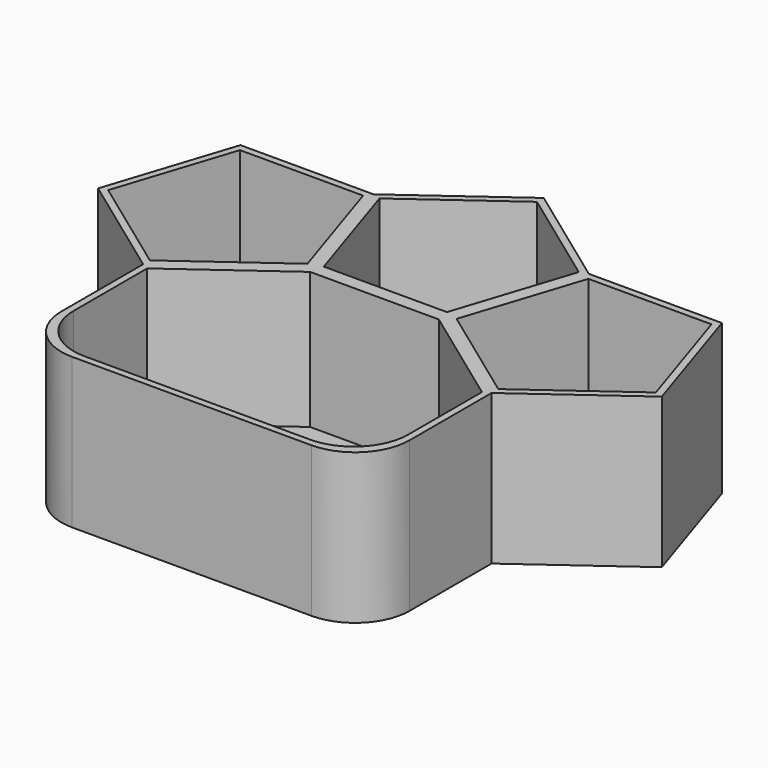
from build123d import *

# Parameters (mm, degrees)
F1_DEPTH = 25.4
F3_DEPTH = 2.54
F4_R     = 10.16


with BuildPart() as f1:
    # F0 (on Top) → F1 (new body)
    with BuildSketch(Plane.XY):
        Polygon((44.789236, 6.508257), (20.030355, 6.508257), (12.37944, -17.038838), (32.409796, -31.591743), (52.440151, -17.038838), align=None)
        Polygon((20.953064, 5.238257), (43.866527, 5.238257), (50.947177, -16.553741), (32.409796, -30.021937), (13.872415, -16.553741), align=None, mode=Mode.SUBTRACT)
        Polygon((12.37944, -17.038838), (20.030355, 6.508257), (0, 21.061162), (-20.030355, 6.508257), (-12.37944, -17.038838), align=None)
        Polygon((-18.537381, 6.02316), (0, 19.491356), (18.537381, 6.02316), (11.456731, -15.768838), (-11.456731, -15.768838), align=None, mode=Mode.SUBTRACT)
        Polygon((32.409796, -31.591743), (12.37944, -17.038838), (-12.37944, -17.038838), (-32.409796, -31.591743), (-32.409796, -60.778446), (32.409796, -60.778446), align=None)
        Polygon((31.139796, -32.23884), (31.139796, -59.508446), (-31.139796, -59.508446), (-31.139796, -32.23884), (-11.966792, -18.308838), (11.966792, -18.308838), align=None, mode=Mode.SUBTRACT)
        Polygon((-32.409796, -31.591743), (-12.37944, -17.038838), (-20.030355, 6.508257), (-44.789236, 6.508257), (-52.440151, -17.038838), align=None)
        Polygon((-43.866527, 5.238257), (-20.953064, 5.238257), (-13.872415, -16.553741), (-32.409796, -30.021937), (-50.947177, -16.553741), align=None, mode=Mode.SUBTRACT)
    extrude(amount=F1_DEPTH)

    # F2 (on Top) → F3 (join)
    with BuildSketch(Plane.XY):
        Polygon((0, 21.061162), (-20.030355, 6.508257), (-44.789236, 6.508257), (-52.440151, -17.038838), (-32.409796, -31.591743), (-32.409796, -60.778446), (32.409796, -60.778446), (32.409796, -31.591743), (52.440151, -17.038838), (44.789236, 6.508257), (20.030355, 6.508257), align=None)
    extrude(amount=-F3_DEPTH)

    # F4
    f4_edges = [f1.edges().sort_by_distance(p)[0] for p in [
        (32.409796, -60.778446, 11.43),
        (-32.409796, -60.778446, 11.43),
        (-31.139796, -59.508446, 12.7),
        (31.139796, -59.508446, 12.7),
    ]]
    fillet(f4_edges, radius=F4_R)


solid = f1.part
